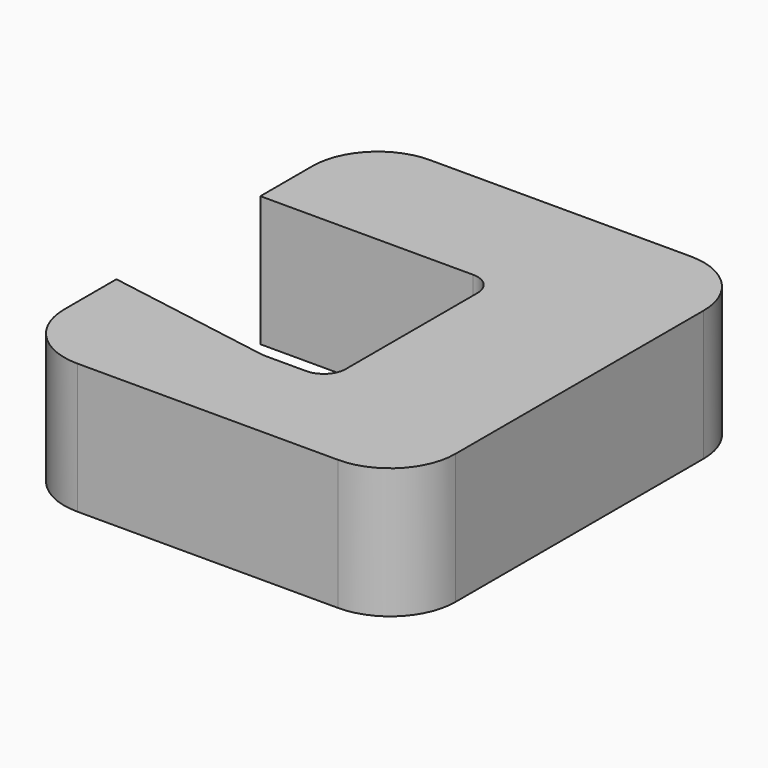
from build123d import *

# Parameters (mm, degrees)
F1_DEPTH = 10
F2_R     = 1.689949
F3_R     = 5


with BuildPart() as f1:
    # F0 (on Top) → F1 (new body)
    with BuildSketch(Plane.XY):
        Polygon((0, 10), (0, 0), (18, 0), (18, -16), (13, -16), (0, -13.8), (0, -23.8), (30, -23.8), (30, 10), align=None)
    extrude(amount=F1_DEPTH)

    # F2
    f2_edges = [f1.edges().sort_by_distance(p)[0] for p in [
        (18, 0, 5),
        (18, -16, 5),
        (13, -16, 5),
    ]]
    fillet(f2_edges, radius=F2_R)

    # F3
    f3_edges = [f1.edges().sort_by_distance(p)[0] for p in [
        (0, 10, 5),
        (30, 10, 5),
        (30, -23.8, 5),
        (0, -23.8, 5),
    ]]
    fillet(f3_edges, radius=F3_R)


solid = f1.part
